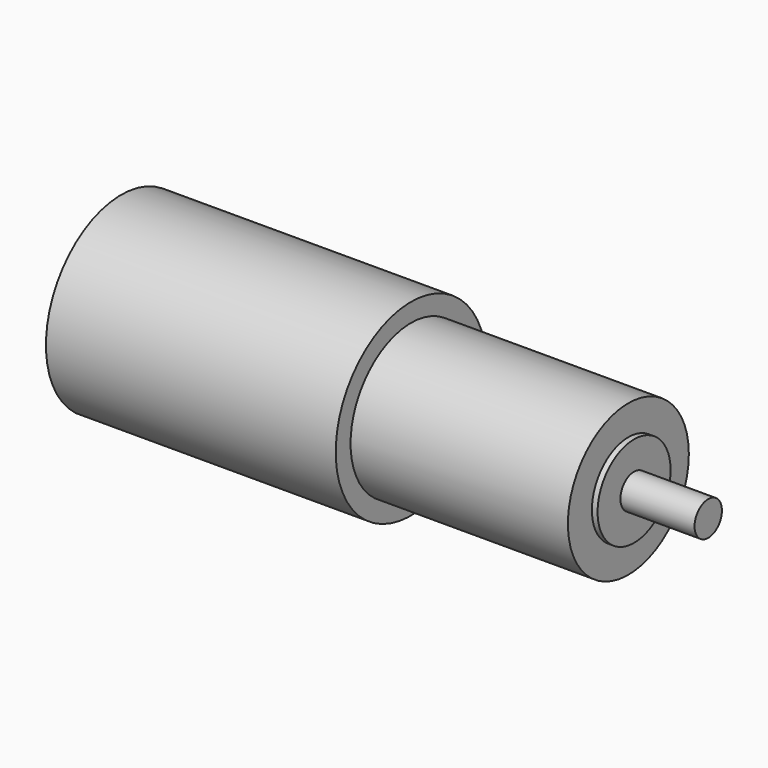
from build123d import *

# Parameters (mm, degrees)
F0_R     = 33
F1_DEPTH = 101.6
F2_R     = 26.5
F3_DEPTH = 76.2
F4_R     = 16
F5_DEPTH = 2
F6_R     = 6
F7_DEPTH = 26


with BuildPart() as f1:
    # F0 (on Right) → F1 (new body)
    with BuildSketch(Plane.YZ):
        Circle(F0_R)
    extrude(amount=F1_DEPTH)

    # F2 (on face) → F3 (join)
    with BuildSketch(Plane.YZ.offset(101.6)):
        Circle(F2_R)
    extrude(amount=F3_DEPTH)

    # F4 (on face) → F5 (join)
    with BuildSketch(Plane.YZ.offset(177.8)):
        Circle(F4_R)
    extrude(amount=F5_DEPTH)

    # F6 (on face) → F7 (join)
    with BuildSketch(Plane.YZ.offset(179.8)):
        Circle(F6_R)
    extrude(amount=F7_DEPTH)


solid = f1.part
